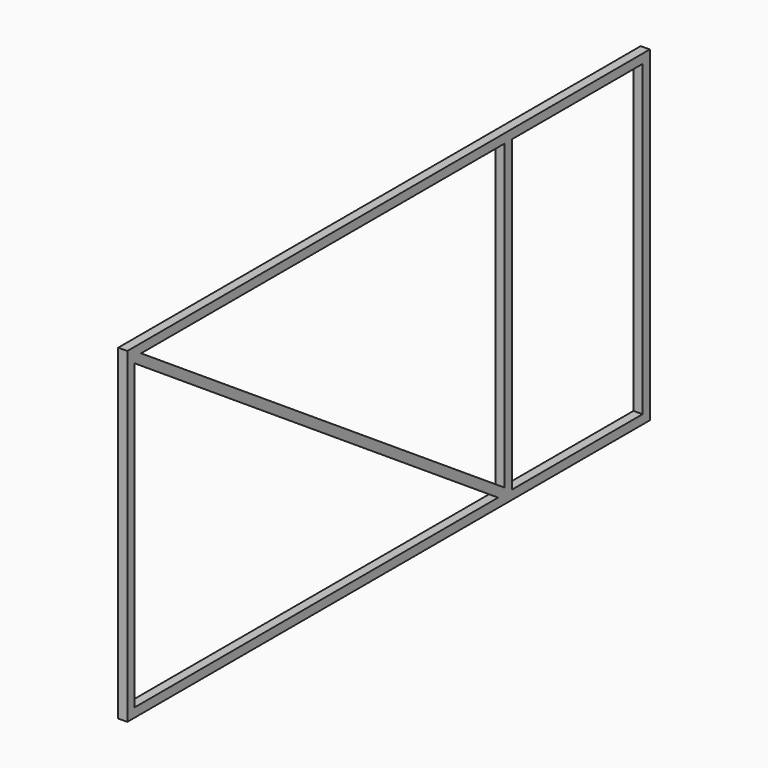
from build123d import *

# Parameters (mm, degrees)
F0_W     = 144
F0_H     = 72
F0_W_2   = 36
F0_H_2   = 68
F1_DEPTH = 2


with BuildPart() as f1:
    # F0 (on Right) → F1 (new body)
    with BuildSketch(Plane.YZ):
        with Locations((72, 36)):
            Rectangle(F0_W, F0_H)
        Polygon((2, 2), (2, 68.79815), (102.197224, 2), align=None, mode=Mode.SUBTRACT)
        Polygon((104, 70), (104, 3.20185), (3.802776, 70), align=None, mode=Mode.SUBTRACT)
        with Locations((124, 36)):
            Rectangle(F0_W_2, F0_H_2, mode=Mode.SUBTRACT)
    extrude(amount=F1_DEPTH)


solid = f1.part
